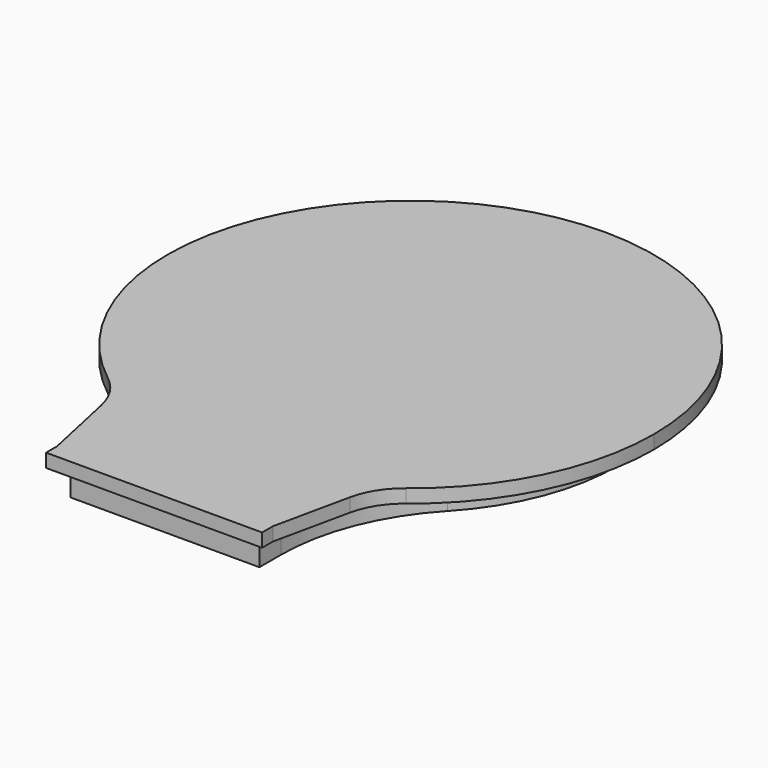
from build123d import *

# Parameters (mm, degrees)
F1_DEPTH = 2
F2_R     = 15
F3_R     = 15
F4_W     = 14
F4_H     = 1
F5_DEPTH = 1
F6_R     = 5


with BuildPart() as f1:
    # F0 (on Top) → F1 (new body)
    with BuildSketch(Plane.XY):
        with BuildLine():
            Line((7, -16.75), (7, -13.5485239048))
            ThreePointArc((7, -13.5485239048), (14.8185270784, 3.6019099414), (0, 15.25))
            Line((0, 15.25), (0, -22.75))
            Line((0, -22.75), (7, -22.75))
            Line((7, -22.75), (7, -16.75))
        make_face()
        with BuildLine():
            Line((0, -22.75), (0, 15.25))
            ThreePointArc((0, 15.25), (-14.8185270784, 3.6019099414), (-7, -13.5485239048))
            Line((-7, -13.5485239048), (-7, -16.75))
            Line((-7, -16.75), (-7, -22.75))
            Line((-7, -22.75), (0, -22.75))
        make_face()
    extrude(amount=F1_DEPTH)

    # F2
    f2_edges = [f1.edges().sort_by_distance(p)[0] for p in [
        (-7, -13.548524, 1),
    ]]
    fillet(f2_edges, radius=F2_R)

    # F3
    f3_edges = [f1.edges().sort_by_distance(p)[0] for p in [
        (7, -13.548524, 1),
    ]]
    fillet(f3_edges, radius=F3_R)

    # F4 (on face) → F5 (join)
    with BuildSketch(Plane.XY.offset(2)):
        with BuildLine():
            ThreePointArc((9.62403785, -15.2229276029), (15.7747967541, -8.6899606851), (18.0099869334, 0))
            ThreePointArc((18.0099869334, 0), (-8.6899606851, 15.7747967541), (-9.62403785, -15.2229276029))
            ThreePointArc((-9.62403785, -15.2229276029), (0, -18.0099869334), (9.62403785, -15.2229276029))
        make_face()
        with BuildLine():
            ThreePointArc((9.62403785, -15.2229276029), (0, -18.0099869334), (-9.62403785, -15.2229276029))
            Line((-9.62403785, -15.2229276029), (-7, -22.75))
            Line((-7, -22.75), (7, -22.75))
            Line((7, -22.75), (9.62403785, -15.2229276029))
        make_face()
        Polygon((-7, -22.75), (-9.62403785, -15.2229276029), (-7, -23.75), align=None)
        Polygon((-7, -23.75), (-9.62403785, -15.2229276029), (-8, -22.75), (-8, -23.75), align=None)
        Polygon((7, -23.75), (9.62403785, -15.2229276029), (7, -22.75), align=None)
        Polygon((8, -22.75), (9.62403785, -15.2229276029), (7, -23.75), (8, -23.75), align=None)
        with Locations((0, -23.25)):
            Rectangle(F4_W, F4_H)
    extrude(amount=F5_DEPTH)

    # F6
    f6_edges = [f1.edges().sort_by_distance(p)[0] for p in [
        (9.624038, -15.222928, 2.5),
        (-9.624038, -15.222928, 2.5),
    ]]
    fillet(f6_edges, radius=F6_R)


solid = f1.part
